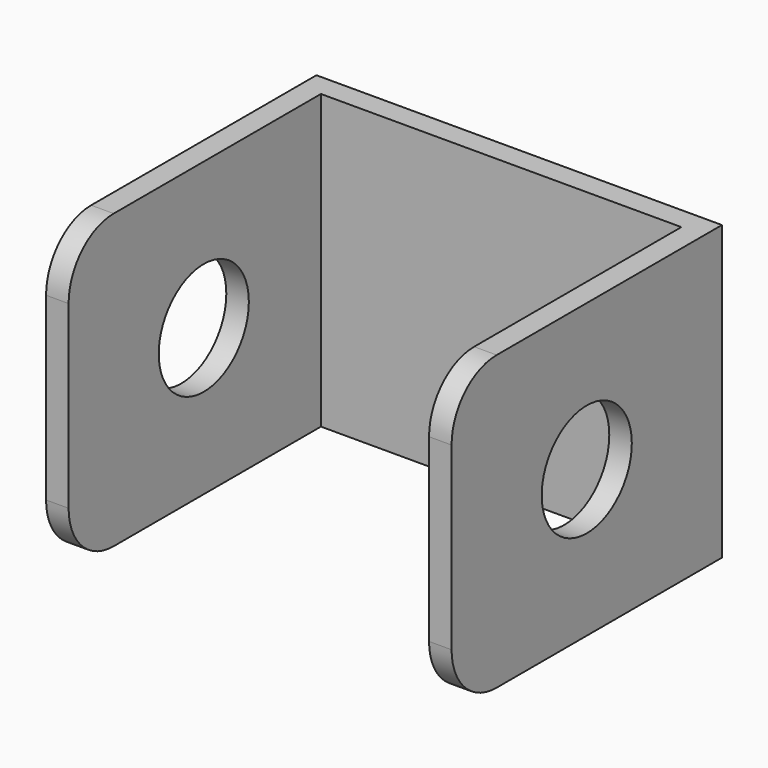
from build123d import *

# Parameters (mm, degrees)
F0_W     = 36
F0_H     = 26
F1_DEPTH = 30
F2_W     = 32
F2_H     = 28
F3_DEPTH = 36
F4_R     = 5
F5_DEPTH = 36.001
F6_R     = 5


with BuildPart() as f1:
    # F0 (on Front) → F1 (new body)
    with BuildSketch(Plane.XZ):
        Rectangle(F0_W, F0_H)
    extrude(amount=F1_DEPTH)

    # F2 (on face) → F3 (cut)
    with BuildSketch(Plane(origin=(0, 0, -13), x_dir=(1, 0, 0), z_dir=(0, 0, -1))):
        with Locations((0, 16)):
            Rectangle(F2_W, F2_H)
    extrude(amount=-F3_DEPTH, mode=Mode.SUBTRACT)

    # F4 (on face) → F5 (cut, through all)
    with BuildSketch(Plane.YZ.offset(18)):
        with Locations((-15, 0)):
            Circle(F4_R)
    extrude(amount=-F5_DEPTH, mode=Mode.SUBTRACT)

    # F6
    f6_edges = [f1.edges().sort_by_distance(p)[0] for p in [
        (17, -30, -13),
        (-17, -30, -13),
        (17, -30, 13),
        (-17, -30, 13),
    ]]
    fillet(f6_edges, radius=F6_R)


solid = f1.part
